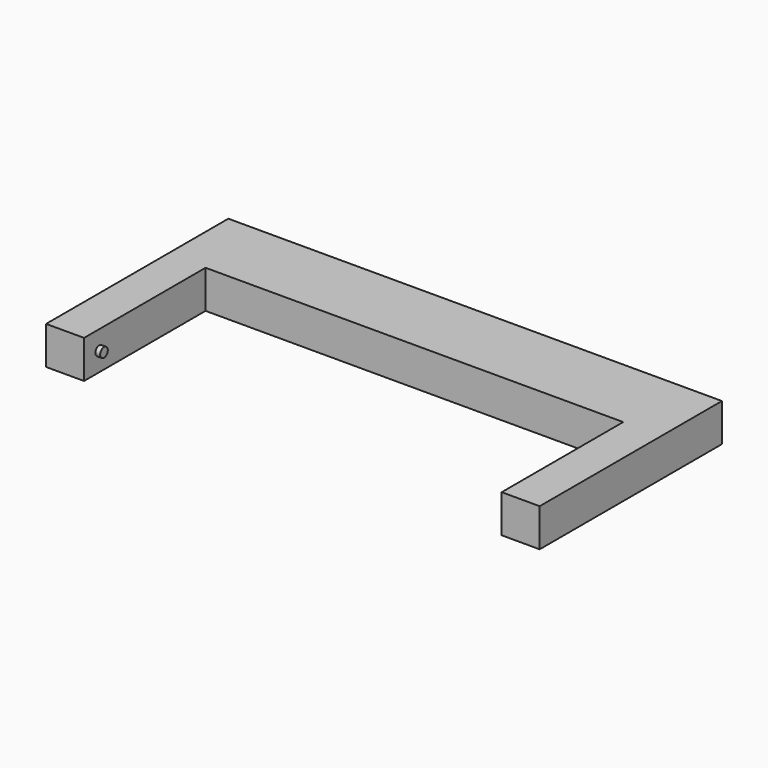
from build123d import *

# Parameters (mm, degrees)
F0_W     = 279.4
F0_H     = 50.8
F1_DEPTH = 25.4
F2_R     = 3.175
F3_DEPTH = 3.175


with BuildPart() as f1:
    # F0 (on Top) → F1 (new body)
    with BuildSketch(Plane.XY):
        with Locations((0, 52.668456)):
            Rectangle(F0_W, F0_H)
        Polygon((-139.7, -74.331544), (-139.7, 27.268456), (-139.7, 78.068456), (-165.1, 78.068456), (-165.1, -74.331544), align=None)
        Polygon((139.7, 78.068456), (139.7, 27.268456), (139.7, -74.331544), (165.1, -74.331544), (165.1, 78.068456), align=None)
    extrude(amount=F1_DEPTH)

    # F2 (on face) → F3 (join)
    with BuildSketch(Plane.YZ.offset(-139.7)):
        with Locations((-61.631544, 12.7)):
            Circle(F2_R)
    extrude(amount=F3_DEPTH)

    # F4: F1 across plane


with BuildPart() as f1_1:
    add(f1.part)
    add(f1.part.mirror(Plane.YZ))


solid = f1_1.part
